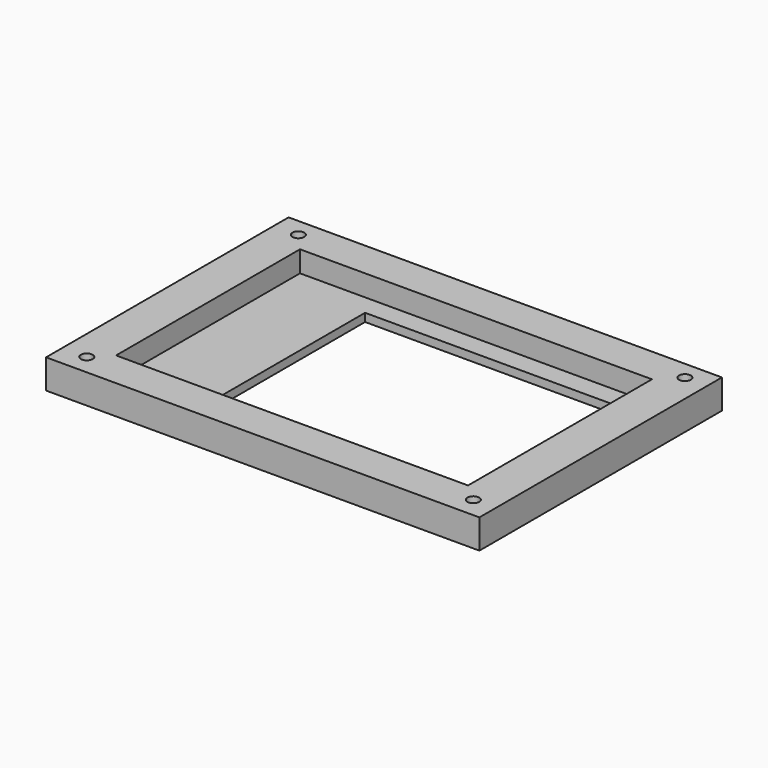
from build123d import *

# Parameters (mm, degrees)
SKETCH020_W     = 74.5
SKETCH020_H     = 106.5
SKETCH020_W_2   = 56.5
SKETCH020_H_2   = 86.5
PAD009_DEPTH    = 5.2
SKETCH021_W     = 74.5
SKETCH021_H     = 106.5
PAD010_DEPTH    = 2
SKETCH022_R     = 1.45
POCKET011_DEPTH = 9


with BuildPart() as part:
    # Sketch020 (on ShapeBinder) → Pad009 (new body)
    with BuildSketch(Plane.YX.offset(-46)):
        with Locations((43.85, 111.75)):
            Rectangle(SKETCH020_W, SKETCH020_H)
        with Locations((43.85, 111.75)):
            Rectangle(SKETCH020_W_2, SKETCH020_H_2, mode=Mode.SUBTRACT)
    extrude(amount=PAD009_DEPTH)

    # Sketch021 (on Face10 of Pad009) → Pad010 (join)
    with BuildSketch(Plane.YX.offset(-40.8)):
        with Locations((43.85, 111.75)):
            Rectangle(SKETCH021_W, SKETCH021_H)
        Polygon((67.1, 149.6), (15.6, 149.6), (15.6, 112), (19.1, 112), (19.1, 88.5), (67.1, 88.5), align=None, mode=Mode.SUBTRACT)
    extrude(amount=PAD010_DEPTH)

    # Sketch022 (on Face4 of Pad010) → Pocket011 (cut)
    with BuildSketch(Plane(origin=(0, 0, 46), x_dir=(0, -1, 0), z_dir=(0, 0, 1))):
        with Locations((-76.6, 159.5)):
            Circle(SKETCH022_R)
        with Locations((-11.6, 159.5)):
            Circle(SKETCH022_R)
        with Locations((-11.6, 64.5)):
            Circle(SKETCH022_R)
        with Locations((-76.6, 64.5)):
            Circle(SKETCH022_R)
    extrude(amount=-POCKET011_DEPTH, mode=Mode.SUBTRACT)


solid = part.part
